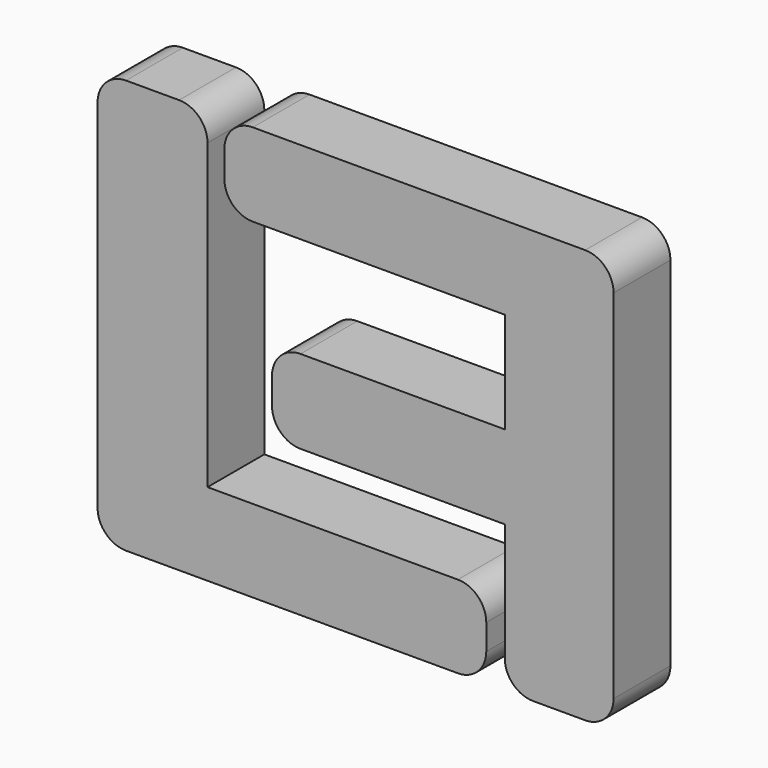
from build123d import *

# Parameters (mm, degrees)
F1_DEPTH = 5
F2_R     = 2


with BuildPart() as f1:
    # F0 (on Front) → F1 (new body)
    with BuildSketch(Plane.XZ):
        Polygon((-9.470089, 14.745392), (-17.209295, 14.745392), (-17.209295, -14.394257), (10.154326, -14.394257), (10.154326, -8.590018), (-9.470089, -8.590018), align=None)
        Polygon((19.118614, 14.745392), (-8.285517, 14.745392), (-8.285517, 8.901669), (11.456843, 8.901669), (11.456843, 1.795119), (-4.929229, 1.795119), (-4.929229, -4.08758), (11.456843, -4.08758), (11.456843, -14.394257), (19.118614, -14.394257), align=None)
    extrude(amount=F1_DEPTH)

    # F2
    f2_edges = [f1.edges().sort_by_distance(p)[0] for p in [
        (-17.209295, -2.5, 14.745392),
        (-9.470089, -2.5, 14.745392),
        (-17.209295, -2.5, -14.394257),
        (10.154326, -2.5, -14.394257),
        (10.154326, -2.5, -8.590018),
        (11.456843, -2.5, -14.394257),
        (19.118614, -2.5, -14.394257),
        (19.118614, -2.5, 14.745392),
        (-4.929229, -2.5, -4.08758),
        (-4.929229, -2.5, 1.795119),
        (-8.285517, -2.5, 8.901669),
        (-8.285517, -2.5, 14.745392),
    ]]
    fillet(f2_edges, radius=F2_R)


solid = f1.part
